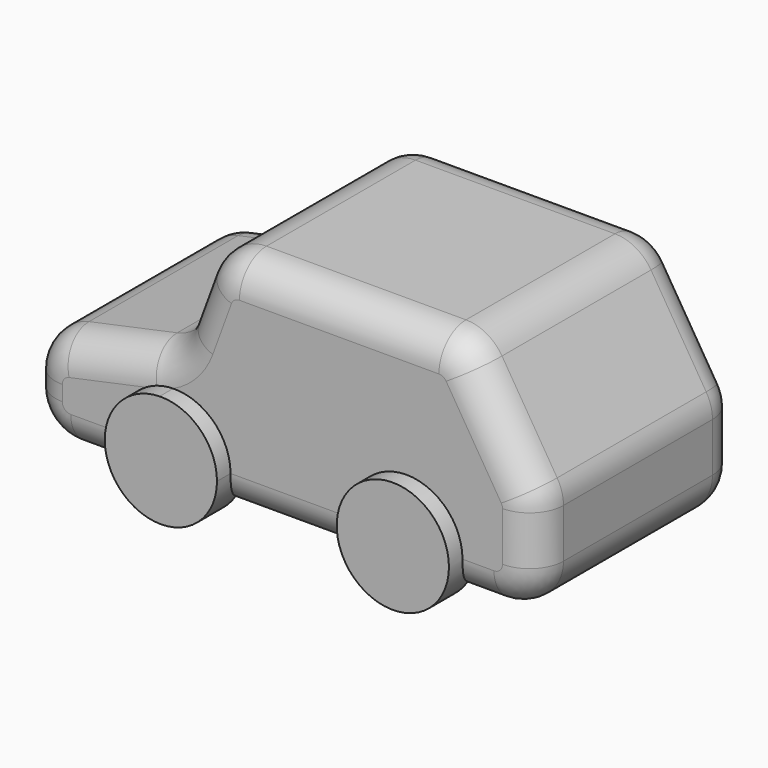
from build123d import *

# Parameters (mm, degrees)
F1_DEPTH = 19.05
F2_R     = 5.08
F4_DEPTH = 2.54


with BuildPart() as f1:
    # F0 (on Front) → F1 (new body, symmetric)
    with BuildSketch(Plane.XZ):
        with BuildLine():
            Line((-31.7947502343, 28.5244368225), (-45.0228915296, 25.7004508864))
            ThreePointArc((-45.0228915296, 25.7004508864), (-48.6337945871, 23.4843832577), (-50.0471470773, 19.4903863419))
            Line((-50.0471470773, 19.4903863419), (-50.0471470773, 17.209751375))
            ThreePointArc((-50.0471470773, 17.209751375), (-48.1872751379, 12.7196233145), (-43.6971470773, 10.859751375))
            Line((-43.6971470773, 10.859751375), (19.8028529227, 10.859751375))
            ThreePointArc((19.8028529227, 10.859751375), (24.2929809832, 12.7196233145), (26.1528529227, 17.209751375))
            Line((26.1528529227, 17.209751375), (26.1528529227, 24.5724479892))
            ThreePointArc((26.1528529227, 24.5724479892), (25.9116323119, 26.3060322456), (25.2062972144, 27.9079074459))
            Line((25.2062972144, 27.9079074459), (16.9319615885, 41.3123310901))
            ThreePointArc((16.9319615885, 41.3123310901), (14.6222474443, 43.5222601478), (11.5285172969, 44.3268716335))
            Line((11.5285172969, 44.3268716335), (-18.3973462303, 44.3268716335))
            ThreePointArc((-18.3973462303, 44.3268716335), (-22.0311174702, 43.1843860671), (-24.3573198303, 40.168039059))
            Line((-24.3573198303, 40.168039059), (-27.1605210865, 32.5433339416))
            ThreePointArc((-27.1605210865, 32.5433339416), (-28.9601695313, 29.9371901824), (-31.7947502343, 28.5244368225))
        make_face()
    extrude(amount=F1_DEPTH, both=True)

    # F2
    f2_edges = [f1.edges().sort_by_distance(p)[0] for p in [
        (-3.434414, -19.05, 44.326872),
        (-3.434414, 19.05, 44.326872),
    ]]
    fillet(f2_edges, radius=F2_R)

    # F3 (on face) → F4 (join, symmetric)
    with BuildSketch(Plane.XZ.offset(19.05)):
        with BuildLine():
            Line((15.0660514035, 15.939751375), (-1.7679906585, 15.939751375))
            ThreePointArc((-1.7679906585, 15.939751375), (6.6490303725, 7.522730344), (15.0660514035, 15.939751375))
        make_face()
        with BuildLine():
            ThreePointArc((15.0660514035, 15.939751375), (6.6490303725, 24.356772406), (-1.7679906585, 15.939751375))
            Line((-1.7679906585, 15.939751375), (15.0660514035, 15.939751375))
        make_face()
        with BuildLine():
            Line((-36.5645825066, 15.939751375), (-19.7305404446, 15.939751375))
            ThreePointArc((-19.7305404446, 15.939751375), (-22.2623397644, 21.9572598666), (-28.3346316813, 24.3546933103))
            ThreePointArc((-28.3346316813, 24.3546933103), (-29.5122474663, 23.8889745473), (-30.7341546725, 23.5563851869))
            Line((-30.7341546725, 23.5563851869), (-32.4075441475, 23.1991446466))
            ThreePointArc((-32.4075441475, 23.1991446466), (-35.451759131, 20.1224466362), (-36.5645825066, 15.939751375))
        make_face()
        with BuildLine():
            ThreePointArc((-30.7341546725, 23.5563851869), (-29.5122474663, 23.8889745473), (-28.3346316813, 24.3546933103))
            ThreePointArc((-28.3346316813, 24.3546933103), (-30.444928012, 24.0371799813), (-32.4075441475, 23.1991446466))
            Line((-32.4075441475, 23.1991446466), (-30.7341546725, 23.5563851869))
        make_face()
        with BuildLine():
            ThreePointArc((-36.5645825066, 15.939751375), (-28.1475614756, 7.522730344), (-19.7305404446, 15.939751375))
            Line((-19.7305404446, 15.939751375), (-36.5645825066, 15.939751375))
        make_face()
    extrude(amount=F4_DEPTH, both=True)

    # F5: F1 across plane


with BuildPart() as f1_1:
    add(f1.part)
    add(f1.part.mirror(Plane.XZ))


solid = f1_1.part
